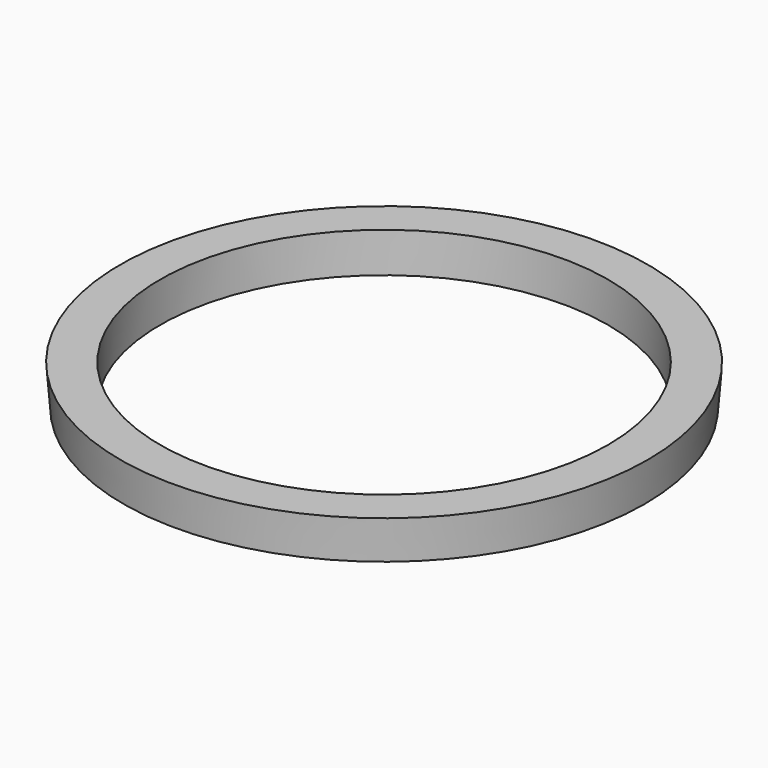
from build123d import *

# Parameters (mm, degrees)
CYLINDER004_R     = 28
CYLINDER004_DEPTH = 10


with BuildPart() as cylinder004:
    # Cylinder004 → Cylinder004 (new body)
    with BuildSketch(Plane.XY.offset(86)):
        Circle(CYLINDER004_R)
    extrude(amount=CYLINDER004_DEPTH)


with BuildPart() as cut004:
    # Cone004 → Cone004 (revolve)
    with BuildSketch(Plane(origin=(0, 0, 87), x_dir=(1, 0, 0), z_dir=(0, -1, 0))):
        Polygon((0, 0), (32.6, 0), (33, 5), (0, 5), align=None)
    revolve(axis=Axis((0, 0, 87), (0, 0, 1)))

    # Cut004: cut Cylinder004
    add(cylinder004.part, mode=Mode.SUBTRACT)


solid = cut004.part
